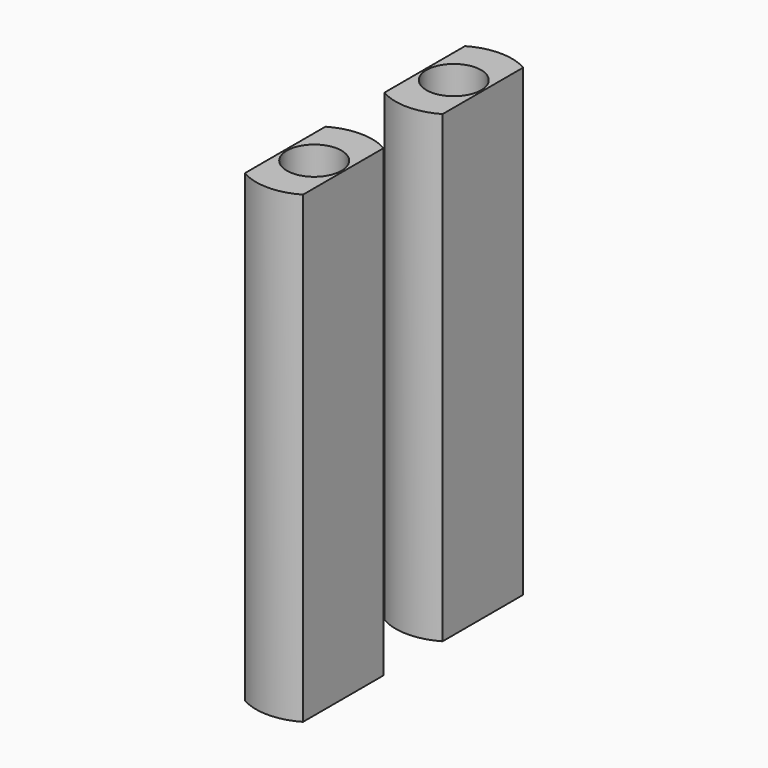
from build123d import *

# Parameters (mm, degrees)
F0_R     = 2.35
F1_DEPTH = 39.9


with BuildPart() as f1:
    # F0 (on Top) → F1 (new body)
    with BuildSketch(Plane.XY):
        with BuildLine():
            Line((-32.570212, -22.431327), (-32.570212, -18.1012))
            ThreePointArc((-32.570212, -18.1012), (-35.070212, -17.431327), (-37.570212, -18.1012))
            Line((-37.570212, -18.1012), (-37.570212, -22.431327))
            Line((-37.570212, -22.431327), (-37.570212, -26.761454))
            ThreePointArc((-37.570212, -26.761454), (-35.070212, -27.431327), (-32.570212, -26.761454))
            Line((-32.570212, -26.761454), (-32.570212, -22.431327))
        make_face()
        with Locations((-35.070212, -22.431327)):
            Circle(F0_R, mode=Mode.SUBTRACT)
    extrude(amount=F1_DEPTH)


with BuildPart() as f2_1:
    # F2: copy of F1
    add(f1.part.moved(Location((0, 15, 0))))


solid = Compound([f1.part, f2_1.part])
